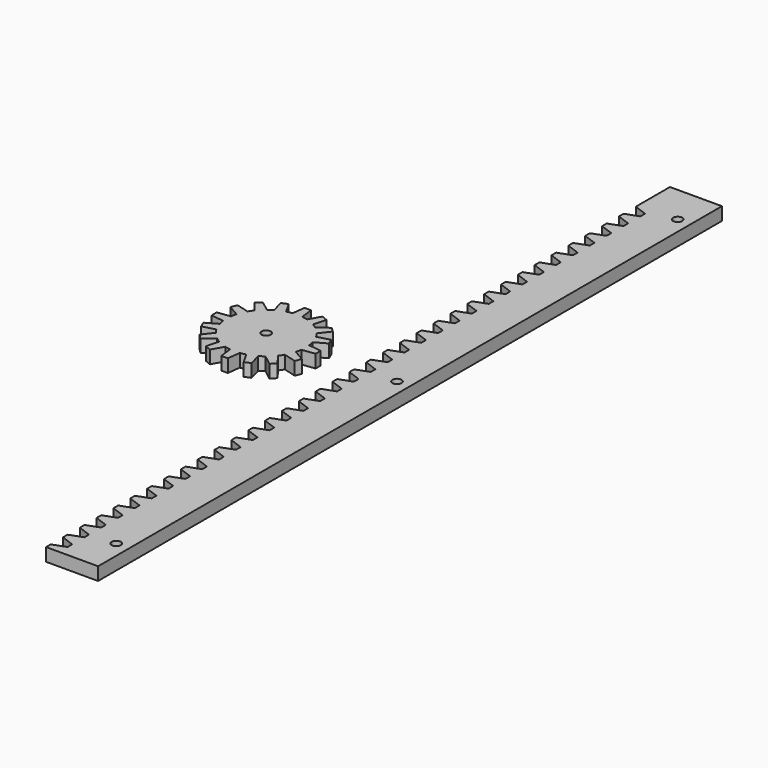
from build123d import *

# Parameters (mm, degrees)
F0_R     = 15
F1_DEPTH = 0.1
F3_DEPTH = 5
F4_W     = 20
F4_H     = 300
F5_DEPTH = 5
F7_DEPTH = 5
F10_D    = 3.5
F11_D    = 3.5


with BuildPart() as f1:
    # F0 (on Top) → F1 (new body)
    with BuildSketch(Plane.XY):
        Circle(F0_R)
    extrude(amount=F1_DEPTH)

    # F2 (on face) → F3 (join)
    with BuildSketch(Plane.XY.offset(0.01)):
        with BuildLine():
            Line((-1.241648, 20), (-1.873757, 15.031218))
            ThreePointArc((-1.873757, 15.031218), (0, 15.147556), (1.873757, 15.031218))
            Line((1.873757, 15.031218), (1.241648, 20))
            Line((1.241648, 20), (-1.241648, 20))
        make_face()
        with BuildLine():
            ThreePointArc((1.873757, 15.031218), (0, 15.147556), (-1.873757, 15.031218))
            ThreePointArc((-1.873757, 15.031218), (-2.955142, 14.8565), (-4.021072, 14.60409))
            ThreePointArc((-4.021072, 14.60409), (-5.796719, 13.994517), (-7.483323, 13.169979))
            ThreePointArc((-7.483323, 13.169979), (-8.415531, 12.594733), (-9.30373, 11.953622))
            ThreePointArc((-9.30373, 11.953622), (-10.71094, 10.71094), (-11.953622, 9.30373))
            ThreePointArc((-11.953622, 9.30373), (-12.594733, 8.415531), (-13.169979, 7.483323))
            ThreePointArc((-13.169979, 7.483323), (-13.994517, 5.796719), (-14.60409, 4.021072))
            ThreePointArc((-14.60409, 4.021072), (-14.8565, 2.955142), (-15.031218, 1.873757))
            ThreePointArc((-15.031218, 1.873757), (-15.147556, 0), (-15.031218, -1.873757))
            ThreePointArc((-15.031218, -1.873757), (-14.8565, -2.955142), (-14.60409, -4.021072))
            ThreePointArc((-14.60409, -4.021072), (-13.994517, -5.796719), (-13.169979, -7.483323))
            ThreePointArc((-13.169979, -7.483323), (-12.594733, -8.415531), (-11.953622, -9.30373))
            ThreePointArc((-11.953622, -9.30373), (-10.71094, -10.71094), (-9.30373, -11.953622))
            ThreePointArc((-9.30373, -11.953622), (-8.415531, -12.594733), (-7.483323, -13.169979))
            ThreePointArc((-7.483323, -13.169979), (-5.796719, -13.994517), (-4.021072, -14.60409))
            ThreePointArc((-4.021072, -14.60409), (-2.955142, -14.8565), (-1.873757, -15.031218))
            ThreePointArc((-1.873757, -15.031218), (0, -15.147556), (1.873757, -15.031218))
            ThreePointArc((1.873757, -15.031218), (2.955142, -14.8565), (4.021072, -14.60409))
            ThreePointArc((4.021072, -14.60409), (5.796719, -13.994517), (7.483323, -13.169979))
            ThreePointArc((7.483323, -13.169979), (8.415531, -12.594733), (9.30373, -11.953622))
            ThreePointArc((9.30373, -11.953622), (10.71094, -10.71094), (11.953622, -9.30373))
            ThreePointArc((11.953622, -9.30373), (12.594733, -8.415531), (13.169979, -7.483323))
            ThreePointArc((13.169979, -7.483323), (13.994517, -5.796719), (14.60409, -4.021072))
            ThreePointArc((14.60409, -4.021072), (14.8565, -2.955142), (15.031218, -1.873757))
            ThreePointArc((15.031218, -1.873757), (15.118444, -0.938682), (15.147556, 0))
            ThreePointArc((15.147556, 0), (15.118444, 0.938682), (15.031218, 1.873757))
            ThreePointArc((15.031218, 1.873757), (14.8565, 2.955142), (14.60409, 4.021072))
            ThreePointArc((14.60409, 4.021072), (13.994517, 5.796719), (13.169979, 7.483323))
            ThreePointArc((13.169979, 7.483323), (12.594733, 8.415531), (11.953622, 9.30373))
            ThreePointArc((11.953622, 9.30373), (10.71094, 10.71094), (9.30373, 11.953622))
            ThreePointArc((9.30373, 11.953622), (8.415531, 12.594733), (7.483323, 13.169979))
            ThreePointArc((7.483323, 13.169979), (5.796719, 13.994517), (4.021072, 14.60409))
            ThreePointArc((4.021072, 14.60409), (2.955142, 14.8565), (1.873757, 15.031218))
        make_face()
        with BuildLine():
            ThreePointArc((-7.483323, 13.169979), (-5.796719, 13.994517), (-4.021072, 14.60409))
            Line((-4.021072, 14.60409), (-6.506536, 18.952749))
            Line((-6.506536, 18.952749), (-8.800802, 18.002433))
            Line((-8.800802, 18.002433), (-7.483323, 13.169979))
        make_face()
        with BuildLine():
            Line((6.506536, 18.952749), (4.021072, 14.60409))
            ThreePointArc((4.021072, 14.60409), (5.796719, 13.994517), (7.483323, 13.169979))
            Line((7.483323, 13.169979), (8.800802, 18.002433))
            Line((8.800802, 18.002433), (6.506536, 18.952749))
        make_face()
        with BuildLine():
            ThreePointArc((-11.953622, 9.30373), (-10.71094, 10.71094), (-9.30373, 11.953622))
            Line((-9.30373, 11.953622), (-13.264158, 15.020113))
            Line((-13.264158, 15.020113), (-15.020113, 13.264158))
            Line((-15.020113, 13.264158), (-11.953622, 9.30373))
        make_face()
        with BuildLine():
            Line((13.264158, 15.020113), (9.30373, 11.953622))
            ThreePointArc((9.30373, 11.953622), (10.71094, 10.71094), (11.953622, 9.30373))
            Line((11.953622, 9.30373), (15.020113, 13.264158))
            Line((15.020113, 13.264158), (13.264158, 15.020113))
        make_face()
        with BuildLine():
            ThreePointArc((-14.60409, 4.021072), (-13.994517, 5.796719), (-13.169979, 7.483323))
            Line((-13.169979, 7.483323), (-18.002433, 8.800802))
            Line((-18.002433, 8.800802), (-18.952749, 6.506536))
            Line((-18.952749, 6.506536), (-14.60409, 4.021072))
        make_face()
        with BuildLine():
            Line((18.002433, 8.800802), (13.169979, 7.483323))
            ThreePointArc((13.169979, 7.483323), (13.994517, 5.796719), (14.60409, 4.021072))
            Line((14.60409, 4.021072), (18.952749, 6.506536))
            Line((18.952749, 6.506536), (18.002433, 8.800802))
        make_face()
        with BuildLine():
            ThreePointArc((-15.031218, -1.873757), (-15.147556, 0), (-15.031218, 1.873757))
            Line((-15.031218, 1.873757), (-20, 1.241648))
            Line((-20, 1.241648), (-20, -1.241648))
            Line((-20, -1.241648), (-15.031218, -1.873757))
        make_face()
        with BuildLine():
            Line((20, 1.241648), (15.031218, 1.873757))
            ThreePointArc((15.031218, 1.873757), (15.118444, 0.938682), (15.147556, 0))
            ThreePointArc((15.147556, 0), (15.118444, -0.938682), (15.031218, -1.873757))
            Line((15.031218, -1.873757), (20, -1.241648))
            Line((20, -1.241648), (20, 1.241648))
        make_face()
        with BuildLine():
            ThreePointArc((-13.169979, -7.483323), (-13.994517, -5.796719), (-14.60409, -4.021072))
            Line((-14.60409, -4.021072), (-18.952749, -6.506536))
            Line((-18.952749, -6.506536), (-18.002433, -8.800802))
            Line((-18.002433, -8.800802), (-13.169979, -7.483323))
        make_face()
        with BuildLine():
            Line((18.952749, -6.506536), (14.60409, -4.021072))
            ThreePointArc((14.60409, -4.021072), (13.994517, -5.796719), (13.169979, -7.483323))
            Line((13.169979, -7.483323), (18.002433, -8.800802))
            Line((18.002433, -8.800802), (18.952749, -6.506536))
        make_face()
        with BuildLine():
            ThreePointArc((-9.30373, -11.953622), (-10.71094, -10.71094), (-11.953622, -9.30373))
            Line((-11.953622, -9.30373), (-15.020113, -13.264158))
            Line((-15.020113, -13.264158), (-13.264158, -15.020113))
            Line((-13.264158, -15.020113), (-9.30373, -11.953622))
        make_face()
        with BuildLine():
            Line((15.020113, -13.264158), (11.953622, -9.30373))
            ThreePointArc((11.953622, -9.30373), (10.71094, -10.71094), (9.30373, -11.953622))
            Line((9.30373, -11.953622), (13.264158, -15.020113))
            Line((13.264158, -15.020113), (15.020113, -13.264158))
        make_face()
        with BuildLine():
            ThreePointArc((-4.021072, -14.60409), (-5.796719, -13.994517), (-7.483323, -13.169979))
            Line((-7.483323, -13.169979), (-8.800802, -18.002433))
            Line((-8.800802, -18.002433), (-6.506536, -18.952749))
            Line((-6.506536, -18.952749), (-4.021072, -14.60409))
        make_face()
        with BuildLine():
            Line((8.800802, -18.002433), (7.483323, -13.169979))
            ThreePointArc((7.483323, -13.169979), (5.796719, -13.994517), (4.021072, -14.60409))
            Line((4.021072, -14.60409), (6.506536, -18.952749))
            Line((6.506536, -18.952749), (8.800802, -18.002433))
        make_face()
        with BuildLine():
            ThreePointArc((1.873757, -15.031218), (0, -15.147556), (-1.873757, -15.031218))
            Line((-1.873757, -15.031218), (-1.241648, -20))
            Line((-1.241648, -20), (1.241648, -20))
            Line((1.241648, -20), (1.873757, -15.031218))
        make_face()
    extrude(amount=F3_DEPTH)

    # F10 (through all)
    with Locations(Plane.XY.offset(5.01)):
        with Locations((0, 0)):
            Hole(F10_D / 2)


with BuildPart() as f5:
    # F4 (on Top) → F5 (new body)
    with BuildSketch(Plane.XY):
        with Locations((45.329116, 0)):
            Rectangle(F4_W, F4_H)
    extrude(amount=F5_DEPTH)

    # F6 (on face) → F7 (cut)
    with BuildSketch(Plane.XY.offset(5)):
        Polygon((35.329116, -141.898298), (35.329116, -147.769), (40.329116, -145.949149), (40.329116, -143.718149), align=None)
        Polygon((35.329116, 133.569702), (35.329116, 127.699), (40.329116, 129.518851), (40.329116, 131.749851), align=None)
        Polygon((35.329116, 125.467702), (35.329116, 119.597), (40.329116, 121.416851), (40.329116, 123.647851), align=None)
        Polygon((35.329116, 117.365702), (35.329116, 111.495), (40.329116, 113.314851), (40.329116, 115.545851), align=None)
        Polygon((35.329116, 109.263702), (35.329116, 103.393), (40.329116, 105.212851), (40.329116, 107.443851), align=None)
        Polygon((35.329116, 101.161702), (35.329116, 95.291), (40.329116, 97.110851), (40.329116, 99.341851), align=None)
        Polygon((35.329116, 93.059702), (35.329116, 87.189), (40.329116, 89.008851), (40.329116, 91.239851), align=None)
        Polygon((35.329116, 84.957702), (35.329116, 79.087), (40.329116, 80.906851), (40.329116, 83.137851), align=None)
        Polygon((35.329116, 76.855702), (35.329116, 70.985), (40.329116, 72.804851), (40.329116, 75.035851), align=None)
        Polygon((35.329116, 68.753702), (35.329116, 62.883), (40.329116, 64.702851), (40.329116, 66.933851), align=None)
        Polygon((35.329116, 60.651702), (35.329116, 54.781), (40.329116, 56.600851), (40.329116, 58.831851), align=None)
        Polygon((35.329116, 52.549702), (35.329116, 46.679), (40.329116, 48.498851), (40.329116, 50.729851), align=None)
        Polygon((35.329116, 44.447702), (35.329116, 38.577), (40.329116, 40.396851), (40.329116, 42.627851), align=None)
        Polygon((35.329116, 36.345702), (35.329116, 30.475), (40.329116, 32.294851), (40.329116, 34.525851), align=None)
        Polygon((35.329116, 28.243702), (35.329116, 22.373), (40.329116, 24.192851), (40.329116, 26.423851), align=None)
        Polygon((35.329116, 20.141702), (35.329116, 14.271), (40.329116, 16.090851), (40.329116, 18.321851), align=None)
        Polygon((35.329116, 12.039702), (35.329116, 6.169), (40.329116, 7.988851), (40.329116, 10.219851), align=None)
        Polygon((35.329116, 3.937702), (35.329116, -1.933), (40.329116, -0.113149), (40.329116, 2.117851), align=None)
        Polygon((35.329116, -4.164298), (35.329116, -10.035), (40.329116, -8.215149), (40.329116, -5.984149), align=None)
        Polygon((35.329116, -12.266298), (35.329116, -18.137), (40.329116, -16.317149), (40.329116, -14.086149), align=None)
        Polygon((35.329116, -20.368298), (35.329116, -26.239), (40.329116, -24.419149), (40.329116, -22.188149), align=None)
        Polygon((35.329116, -28.470298), (35.329116, -34.341), (40.329116, -32.521149), (40.329116, -30.290149), align=None)
        Polygon((35.329116, -36.572298), (35.329116, -42.443), (40.329116, -40.623149), (40.329116, -38.392149), align=None)
        Polygon((35.329116, -44.674298), (35.329116, -50.545), (40.329116, -48.725149), (40.329116, -46.494149), align=None)
        Polygon((35.329116, -52.776298), (35.329116, -58.647), (40.329116, -56.827149), (40.329116, -54.596149), align=None)
        Polygon((35.329116, -60.878298), (35.329116, -66.749), (40.329116, -64.929149), (40.329116, -62.698149), align=None)
        Polygon((35.329116, -68.980298), (35.329116, -74.851), (40.329116, -73.031149), (40.329116, -70.800149), align=None)
        Polygon((35.329116, -77.082298), (35.329116, -82.953), (40.329116, -81.133149), (40.329116, -78.902149), align=None)
        Polygon((35.329116, -85.184298), (35.329116, -91.055), (40.329116, -89.235149), (40.329116, -87.004149), align=None)
        Polygon((35.329116, -93.286298), (35.329116, -99.157), (40.329116, -97.337149), (40.329116, -95.106149), align=None)
        Polygon((35.329116, -101.388298), (35.329116, -107.259), (40.329116, -105.439149), (40.329116, -103.208149), align=None)
        Polygon((35.329116, -109.490298), (35.329116, -115.361), (40.329116, -113.541149), (40.329116, -111.310149), align=None)
        Polygon((35.329116, -117.592298), (35.329116, -123.463), (40.329116, -121.643149), (40.329116, -119.412149), align=None)
        Polygon((35.329116, -125.694298), (35.329116, -131.565), (40.329116, -129.745149), (40.329116, -127.514149), align=None)
        Polygon((35.329116, -133.796298), (35.329116, -139.667), (40.329116, -137.847149), (40.329116, -135.616149), align=None)
    extrude(amount=-F7_DEPTH, mode=Mode.SUBTRACT)

    # F11 (through all)
    with Locations(Plane.XY.offset(5)):
        with Locations((50.329116, 135), (50.329116, 0), (50.329116, -135)):
            Hole(F11_D / 2)


solid = Compound([f1.part, f5.part])
